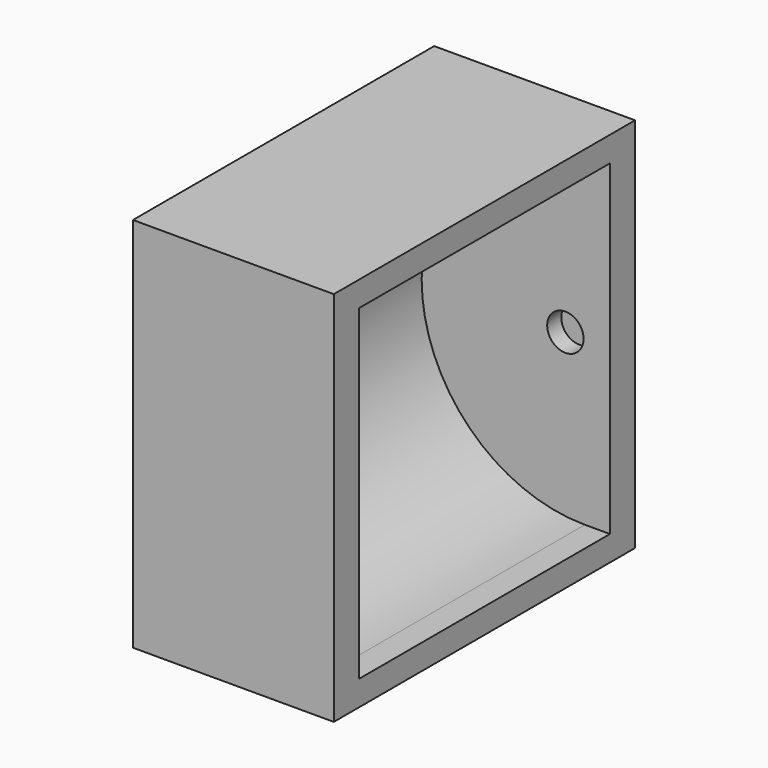
from build123d import *

# Parameters (mm, degrees)
F0_W          = 150
F0_H          = 150
F1_DEPTH      = 80
F3_W          = 10
F3_H          = 130
F4_DEPTH      = 62.5
F4_DEPTH_BACK = 62.5
F5_R          = 7.25
F6_DEPTH      = 7


with BuildPart() as f1:
    # F0 (on Right) → F1 (new body)
    with BuildSketch(Plane.YZ):
        with Locations((75, 75)):
            Rectangle(F0_W, F0_H)
    extrude(amount=F1_DEPTH)

    # F3 (on mid) → F4 (cut, two sides)
    with BuildSketch(Plane.XZ.offset(-75)) as f4_sk:
        with Locations((75, 75)):
            Rectangle(F3_W, F3_H)
        with BuildLine():
            Line((70, 10), (70, 140))
            ThreePointArc((70, 140), (5, 75), (70, 10))
        make_face()
    extrude(amount=-F4_DEPTH, mode=Mode.SUBTRACT)
    extrude(f4_sk.sketch, amount=F4_DEPTH_BACK, mode=Mode.SUBTRACT)

    # F5 (on face) → F6 (cut)
    with BuildSketch(Plane.XZ.offset(-137.5)):
        with Locations((62.25, 75)):
            Circle(F5_R)
    extrude(amount=-F6_DEPTH, mode=Mode.SUBTRACT)

    # F7: F1 across plane


with BuildPart() as f1_1:
    add(f1.part)
    add(f1.part.mirror(Plane(origin=(40, 75, 75), x_dir=(1, 0, 0), z_dir=(0, -1, 0))), mode=Mode.INTERSECT)


solid = f1_1.part
